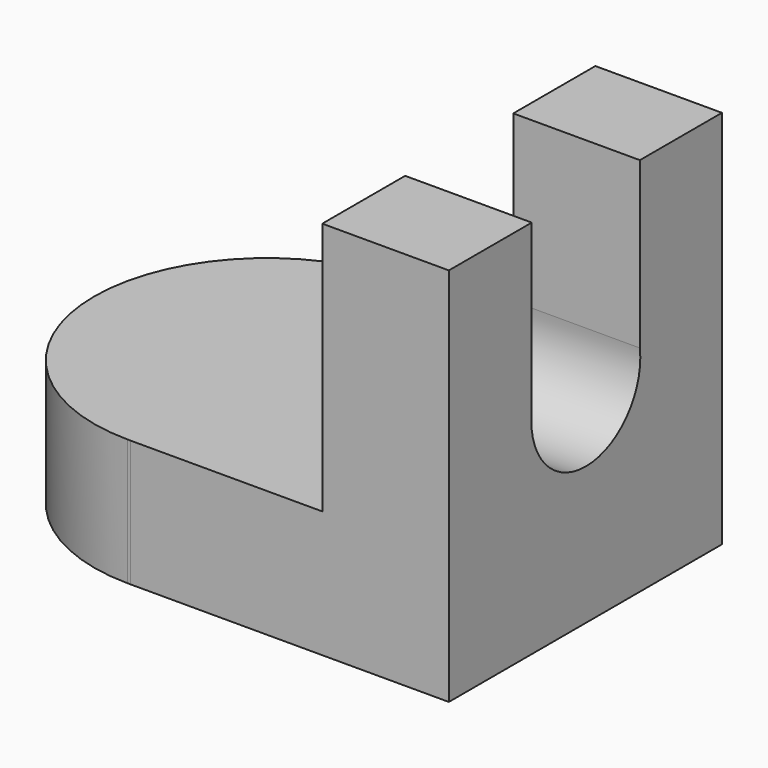
from build123d import *

# Parameters (mm, degrees)
F1_DEPTH = 25.4
F3_DEPTH = 25.4


with BuildPart() as f1:
    # F0 (on Right) → F1 (new body)
    with BuildSketch(Plane.YZ):
        with BuildLine():
            Line((-13.87488, 76.233894), (-34.660738, 76.233894))
            Line((-34.660738, 76.233894), (-34.660738, 0))
            Line((-34.660738, 0), (33.829767, 0))
            Line((33.829767, 0), (33.829767, 76.233894))
            Line((33.829767, 76.233894), (13.251293, 76.233894))
            Line((13.251293, 76.233894), (13.251293, 43.04883))
            ThreePointArc((13.251293, 43.04883), (-0.311793, 27.639115), (-13.87488, 43.04883))
            Line((-13.87488, 43.04883), (-13.87488, 76.233894))
        make_face()
    extrude(amount=F1_DEPTH)

    # F2 (on Top) → F3 (join)
    with BuildSketch(Plane.XY):
        with BuildLine():
            Line((0, -34.660738), (0, 34.662017))
            Line((0, 34.662017), (-38.818482, 34.662017))
            ThreePointArc((-38.818482, 34.662017), (-73.480179, 0.148866), (-39.116211, -34.660738))
            Line((-39.116211, -34.660738), (-38.520754, -34.660738))
            Line((-38.520754, -34.660738), (0, -34.660738))
        make_face()
        with BuildLine():
            Line((-38.520754, -34.660738), (-39.116211, -34.660738))
            ThreePointArc((-39.116211, -34.660738), (-38.818482, -34.662017), (-38.520754, -34.660738))
        make_face()
    extrude(amount=F3_DEPTH)


solid = f1.part
